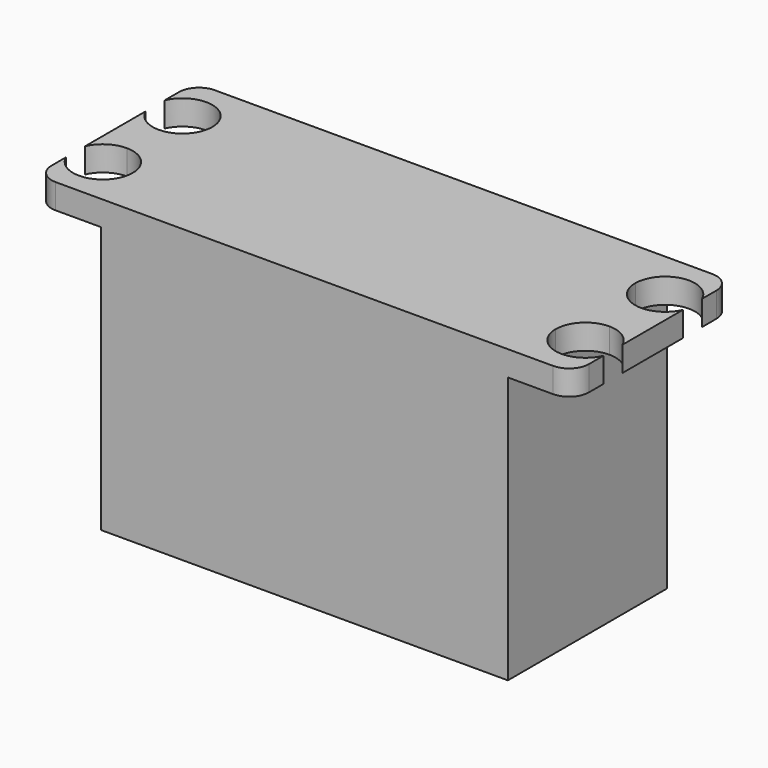
from build123d import *

# Parameters (mm, degrees)
F0_W     = 40.9
F0_H     = 10
F0_H_2   = 5
F1_DEPTH = 26.8
F2_DEPTH = 2.5


with BuildPart() as f1:
    # F0 (on Top) → F1 (new body)
    with BuildSketch(Plane.XY):
        Rectangle(F0_W, F0_H)
        with Locations((0, -7.5)):
            Rectangle(F0_W, F0_H_2)
        with Locations((0, 7.5)):
            Rectangle(F0_W, F0_H_2)
    extrude(amount=-F1_DEPTH)

    # F0 (on Top) → F2 (join)
    with BuildSketch(Plane.XY):
        with BuildLine():
            Line((-21.25, 5), (-20.45, 5))
            Line((-20.45, 5), (-20.45, 10))
            Line((-20.45, 10), (-25, 10))
            ThreePointArc((-25, 10), (-26.4142135624, 9.4142135624), (-27, 8))
            Line((-27, 8), (-27, 6.1989578808))
            ThreePointArc((-27, 6.1989578808), (-23.6376275643, 7.9368350311), (-21.25, 5))
        make_face()
        with BuildLine():
            Line((-21.25, -5), (-20.45, -5))
            Line((-20.45, -5), (-20.45, 5))
            Line((-20.45, 5), (-21.25, 5))
            ThreePointArc((-21.25, 5), (-22.1286796564, 2.8786796564), (-24.25, 2))
            Line((-24.25, 2), (-24.25, -2))
            ThreePointArc((-24.25, -2), (-22.1286796564, -2.8786796564), (-21.25, -5))
        make_face()
        with BuildLine():
            ThreePointArc((-27, -3.8010421192), (-25.8936432638, -2.4903313324), (-24.25, -2))
            Line((-24.25, -2), (-24.25, 2))
            ThreePointArc((-24.25, 2), (-25.8936432638, 2.4903313324), (-27, 3.8010421192))
            Line((-27, 3.8010421192), (-27, -3.8010421192))
        make_face()
        with BuildLine():
            Line((-25, -10), (-20.45, -10))
            Line((-20.45, -10), (-20.45, -5))
            Line((-20.45, -5), (-21.25, -5))
            ThreePointArc((-21.25, -5), (-23.6376275643, -7.9368350311), (-27, -6.1989578808))
            Line((-27, -6.1989578808), (-27, -8))
            ThreePointArc((-27, -8), (-26.4142135624, -9.4142135624), (-25, -10))
        make_face()
        with Locations((0, -7.5)):
            Rectangle(F0_W, F0_H_2)
        Rectangle(F0_W, F0_H)
        with BuildLine():
            Line((20.45, -5), (20.45, -10))
            Line((20.45, -10), (25, -10))
            ThreePointArc((25, -10), (26.4142135624, -9.4142135624), (27, -8))
            Line((27, -8), (27, -6.1989578808))
            ThreePointArc((27, -6.1989578808), (23.6376275643, -7.9368350311), (21.25, -5))
            Line((21.25, -5), (20.45, -5))
        make_face()
        with Locations((0, 7.5)):
            Rectangle(F0_W, F0_H_2)
        with BuildLine():
            Line((20.45, 10), (20.45, 5))
            Line((20.45, 5), (21.25, 5))
            ThreePointArc((21.25, 5), (23.6376275643, 7.9368350311), (27, 6.1989578808))
            Line((27, 6.1989578808), (27, 8))
            ThreePointArc((27, 8), (26.4142135624, 9.4142135624), (25, 10))
            Line((25, 10), (20.45, 10))
        make_face()
        with BuildLine():
            Line((20.45, 5), (20.45, -5))
            Line((20.45, -5), (21.25, -5))
            ThreePointArc((21.25, -5), (22.1286796564, -2.8786796564), (24.25, -2))
            Line((24.25, -2), (24.25, 2))
            ThreePointArc((24.25, 2), (22.1286796564, 2.8786796564), (21.25, 5))
            Line((21.25, 5), (20.45, 5))
        make_face()
        with BuildLine():
            Line((24.25, 2), (24.25, -2))
            ThreePointArc((24.25, -2), (25.8936432638, -2.4903313324), (27, -3.8010421192))
            Line((27, -3.8010421192), (27, 3.8010421192))
            ThreePointArc((27, 3.8010421192), (25.8936432638, 2.4903313324), (24.25, 2))
        make_face()
    extrude(amount=F2_DEPTH)


solid = f1.part
